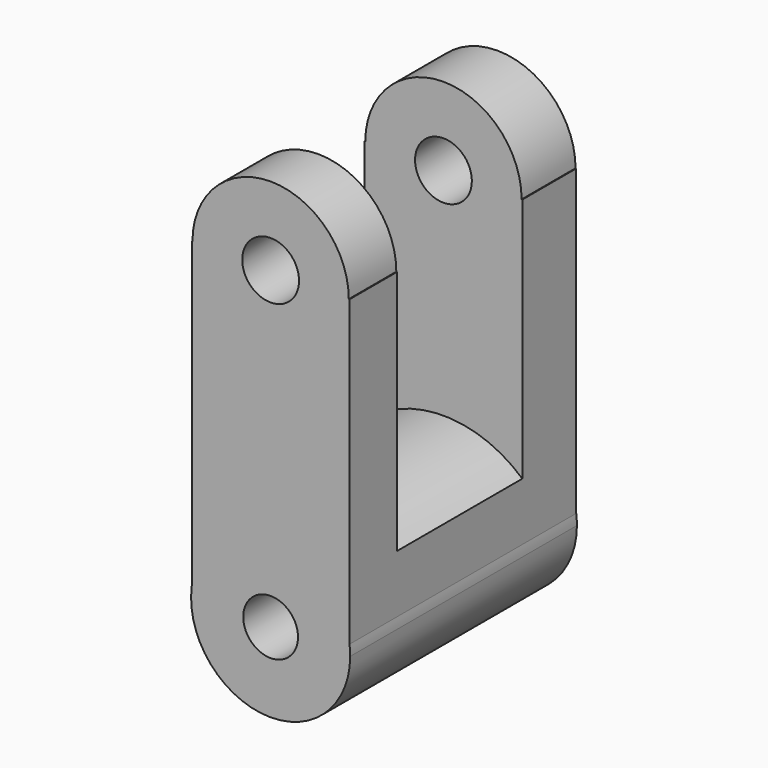
from build123d import *

# Parameters (mm, degrees)
F1_DEPTH = 76.2
F2_W     = 42.1064179391
F2_H     = 26.5092402697
F2_H_2   = 66.0529509187
F3_DEPTH = 127
F5_DEPTH = 45.72


with BuildPart() as f1:
    # F0 (on Front) → F1 (new body)
    with BuildSketch(Plane.XZ):
        with BuildLine():
            ThreePointArc((-10.6776429778, 46.1808890104), (-3.0418550596, 53.8166769287), (4.5939328587, 46.1808890104))
            Line((4.5939328587, 46.1808890104), (17.9729815764, 46.1808890104))
            ThreePointArc((17.9729815764, 46.1808890104), (-3.0418550596, 67.1957256464), (-24.0566916955, 46.1808890104))
            Line((-24.0566916955, 46.1808890104), (-10.6776429778, 46.1808890104))
        make_face()
        with BuildLine():
            Line((17.9729815764, 46.1808890104), (4.5939328587, 46.1808890104))
            ThreePointArc((4.5939328587, 46.1808890104), (-3.0418550596, 38.5451010922), (-10.6776429778, 46.1808890104))
            Line((-10.6776429778, 46.1808890104), (-24.0566916955, 46.1808890104))
            ThreePointArc((-24.0566916955, 46.1808890104), (-3.0418550596, 25.1660523745), (17.9729815764, 46.1808890104))
        make_face()
        with BuildLine():
            Line((18.1589517742, 46.1808890104), (17.9729815764, 46.1808890104))
            ThreePointArc((17.9729815764, 46.1808890104), (-3.0418550596, 25.1660523745), (-24.0566916955, 46.1808890104))
            Line((-24.0566916955, 46.1808890104), (-24.2426618934, 46.1808890104))
            Line((-24.2426618934, 46.1808890104), (-24.2426618934, -35.4456115543))
            ThreePointArc((-24.2426618934, -35.4456115543), (-3.0418550596, -16.8676737579), (18.1589517742, -35.4456115543))
            Line((18.1589517742, -35.4456115543), (18.1589517742, 46.1808890104))
        make_face()
        with BuildLine():
            Line((18.1589517742, -38.2536314428), (18.1589517742, -35.4456115543))
            ThreePointArc((18.1589517742, -35.4456115543), (-3.0418550596, -16.8676737579), (-24.2426618934, -35.4456115543))
            Line((-24.2426618934, -35.4456115543), (-24.2426618934, -38.2536314428))
            Line((-24.2426618934, -38.2536314428), (-10.4049137752, -38.2536314428))
            ThreePointArc((-10.4049137752, -38.2536314428), (-3.0418550596, -30.8905727272), (4.321203656, -38.2536314428))
            Line((4.321203656, -38.2536314428), (18.1589517742, -38.2536314428))
        make_face()
        with BuildLine():
            ThreePointArc((18.3441026253, -38.2536314428), (18.2977647113, -36.8465727614), (18.1589517742, -35.4456115543))
            Line((18.1589517742, -35.4456115543), (18.1589517742, -38.2536314428))
            Line((18.1589517742, -38.2536314428), (4.321203656, -38.2536314428))
            ThreePointArc((4.321203656, -38.2536314428), (-3.0418550596, -45.6166901584), (-10.4049137752, -38.2536314428))
            Line((-10.4049137752, -38.2536314428), (-24.2426618934, -38.2536314428))
            Line((-24.2426618934, -38.2536314428), (-24.2426618934, -35.4456115543))
            ThreePointArc((-24.2426618934, -35.4456115543), (-4.448913741, -59.5932512137), (18.3441026253, -38.2536314428))
        make_face()
    extrude(amount=F1_DEPTH)

    # F2 (on face) → F3 (cut)
    with BuildSketch(Plane.YZ.offset(18.1589517742)):
        with Locations((-39.1769716516, 59.4355091453)):
            Rectangle(F2_W, F2_H)
        with Locations((-39.1769716516, 13.1544135511)):
            Rectangle(F2_W, F2_H_2)
    extrude(amount=-F3_DEPTH, mode=Mode.SUBTRACT)

    # F4 (on face) → F5 (join)
    with BuildSketch(Plane.XZ.offset(18.1237626821)):
        with BuildLine():
            Line((-24.2426618934, -19.8720619082), (18.1589517742, -19.8720619082))
            ThreePointArc((18.1589517742, -19.8720619082), (-3.0418550596, -11.8207453955), (-24.2426618934, -19.8720619082))
        make_face()
    extrude(amount=F5_DEPTH)


solid = f1.part
